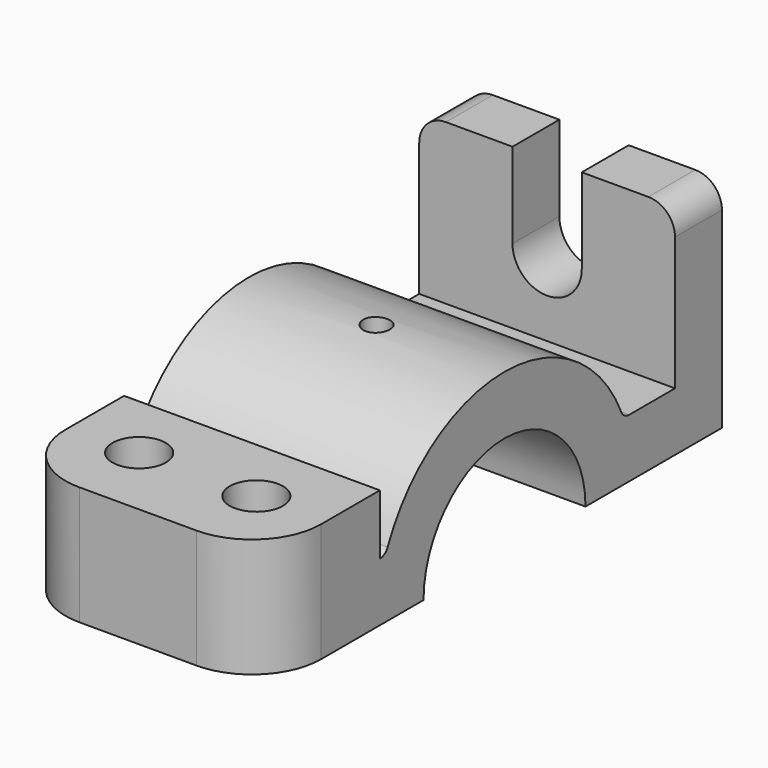
from build123d import *

# Parameters (mm, degrees)
F0_W     = 11
F0_H     = 30
F1_DEPTH = 24
F3_DEPTH = 11
F4_R     = 2.5
F4_R_2   = 5
F5_DEPTH = 41.001
F6_R     = 13
F7_R     = 5
F8_R     = 2
F9_DEPTH = 11.3


with BuildPart() as f1:
    # F0 (on Right) → F1 (new body, symmetric)
    with BuildSketch(Plane.YZ):
        with BuildLine():
            Line((-56, 0), (-30, 0))
            ThreePointArc((-30, 0), (-29.4730143031, 5.5983415304), (-27.9105714739, 11))
            Line((-27.9105714739, 11), (-56, 11))
            Line((-56, 11), (-56, 0))
        make_face()
        with BuildLine():
            Line((-30, 0), (-19, 0))
            ThreePointArc((-19, 0), (-18.1017503893, 5.7729223833), (-15.4919333848, 11))
            Line((-15.4919333848, 11), (-27.9105714739, 11))
            ThreePointArc((-27.9105714739, 11), (-29.4730143031, 5.5983415304), (-30, 0))
        make_face()
        with BuildLine():
            ThreePointArc((15.4919333848, 11), (18.1017503893, 5.7729223833), (19, 0))
            Line((19, 0), (30, 0))
            ThreePointArc((30, 0), (29.4730143031, 5.5983415304), (27.9105714739, 11))
            Line((27.9105714739, 11), (15.4919333848, 11))
        make_face()
        with BuildLine():
            ThreePointArc((-15.4919333848, 11), (0, 19), (15.4919333848, 11))
            Line((15.4919333848, 11), (27.9105714739, 11))
            ThreePointArc((27.9105714739, 11), (0, 30), (-27.9105714739, 11))
            Line((-27.9105714739, 11), (-15.4919333848, 11))
        make_face()
        with BuildLine():
            ThreePointArc((27.9105714739, 11), (29.4730143031, 5.5983415304), (30, 0))
            Line((30, 0), (51, 0))
            Line((51, 0), (51, 11))
            Line((51, 11), (40, 11))
            Line((40, 11), (27.9105714739, 11))
        make_face()
        with Locations((45.5, 26)):
            Rectangle(F0_W, F0_H)
    extrude(amount=F1_DEPTH, both=True)

    # F2 (on face) → F3 (cut, through all)
    with BuildSketch(Plane(origin=(0, 51, 0), x_dir=(-1, 0, 0), z_dir=(0, 1, 0))):
        with BuildLine():
            ThreePointArc((-6.5, 25), (0, 18.5), (6.5, 25))
            ThreePointArc((6.5, 25), (0, 31.5), (-6.5, 25))
        make_face()
        with BuildLine():
            ThreePointArc((-6.5, 25), (0, 31.5), (6.5, 25))
            Line((6.5, 25), (6.5, 41))
            Line((6.5, 41), (-6.5, 41))
            Line((-6.5, 41), (-6.5, 25))
        make_face()
    extrude(amount=-F3_DEPTH, mode=Mode.SUBTRACT)

    # F4 (on Top) → F5 (cut, through all)
    with BuildSketch(Plane.XY):
        Circle(F4_R)
        with Locations((-11, -41.955285737)):
            Circle(F4_R_2)
        with Locations((11, -41.955285737)):
            Circle(F4_R_2)
    extrude(amount=F5_DEPTH, mode=Mode.SUBTRACT)

    # F6
    f6_edges = [f1.edges().sort_by_distance(p)[0] for p in [
        (24, -56, 5.5),
        (-24, -56, 5.5),
    ]]
    fillet(f6_edges, radius=F6_R)

    # F7
    f7_edges = [f1.edges().sort_by_distance(p)[0] for p in [
        (24, 45.5, 41),
        (-24, 45.5, 41),
    ]]
    fillet(f7_edges, radius=F7_R)

    # F8
    f8_edges = [f1.edges().sort_by_distance(p)[0] for p in [
        (0, -27.910571, 11),
        (0, 27.910571, 11),
    ]]
    fillet(f8_edges, radius=F8_R)

    # F9 (add): a face of the model
    f9_faces = [f1.faces().sort_by_distance(p)[0] for p in [
        (0, -41.9988312455, 11),
    ]]
    extrude(f9_faces, amount=F9_DEPTH)


solid = f1.part
